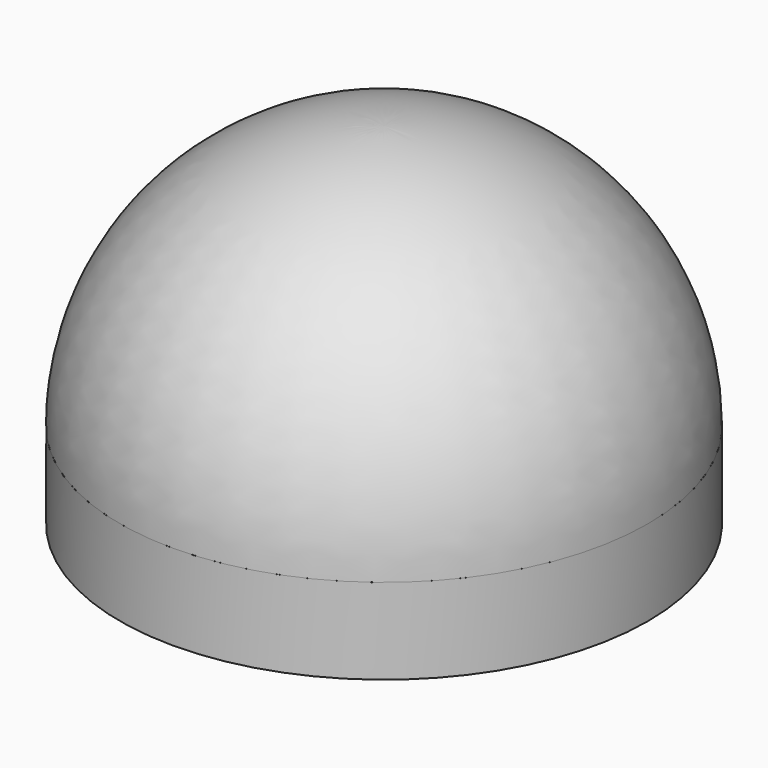
from build123d import *

# Parameters (mm, degrees)
SKETCH_R        = 46.2
PAD_DEPTH       = 15
SKETCH001_R     = 45
PAD001_DEPTH    = 3
SKETCH002_W     = 22
SKETCH002_H     = 52
POCKET_DEPTH    = 14
SKETCH003_W     = 8
SKETCH003_H     = 2.5
POCKET001_DEPTH = 3.701
FILLET_R        = 0.8
CHAMFER_SIZE    = 1
SKETCH004_W     = 7
SKETCH004_H     = 7
POCKET002_DEPTH = 6
SKETCH005_W     = 7
SKETCH005_H     = 2.25
POCKET003_DEPTH = 12.001
CHAMFER001_SIZE = 2
SKETCH006_W     = 22
SKETCH006_H     = 2.5
POCKET004_DEPTH = 1
SKETCH009_W     = 22
SKETCH009_H     = 3
PAD002_DEPTH    = 4
SKETCH010_W     = 14
SKETCH010_H     = 10
POCKET005_DEPTH = 12
FILLET001_R     = 1


with BuildPart() as body:
    # Sketch → Pad (new body)
    with BuildSketch(Plane.XY):
        Circle(SKETCH_R)
    extrude(amount=-PAD_DEPTH)

    # Sketch001 (on Face2 of Pad) → Pad001 (join)
    with BuildSketch(Plane.XY):
        Circle(SKETCH001_R)
    extrude(amount=PAD001_DEPTH)

    # Sketch002 (on Face5 of Pad001) → Pocket (cut)
    with BuildSketch(Plane.XY.offset(3)):
        with Locations((0, 16.5)):
            Rectangle(SKETCH002_W, SKETCH002_H)
    extrude(amount=-POCKET_DEPTH, mode=Mode.SUBTRACT)

    # Sketch003 (on Face9 of Pocket) → Pocket001 (cut, through all)
    with BuildSketch(Plane.XZ.offset(-42.5)):
        with Locations((0, -4.25)):
            Rectangle(SKETCH003_W, SKETCH003_H)
    extrude(amount=-POCKET001_DEPTH, mode=Mode.SUBTRACT)

    # Fillet
    fillet_edges = [body.edges().sort_by_distance(p)[0] for p in [
        (4, 44.263257, -3),
        (-4, 44.263257, -3),
        (-4, 44.263257, -5.5),
        (4, 44.263257, -5.5),
    ]]
    fillet(fillet_edges, radius=FILLET_R)

    # Chamfer
    chamfer_edges = [body.edges().sort_by_distance(p)[0] for p in [
        (-11, 16.5, 3),
        (11, 16.5, 3),
        (0, -9.5, 3),
    ]]
    chamfer(chamfer_edges, length=CHAMFER_SIZE)

    # Sketch004 (on Face21 of Chamfer) → Pocket002 (cut)
    with BuildSketch(Plane(origin=(0, 0, -15), x_dir=(1, 0, 0), z_dir=(0, 0, -1))):
        with Locations((0, 34)):
            Rectangle(SKETCH004_W, SKETCH004_H)
    extrude(amount=-POCKET002_DEPTH, mode=Mode.SUBTRACT)

    # Sketch005 (on Face26 of Pocket002) → Pocket003 (cut, through all)
    with BuildSketch(Plane(origin=(0, 0, -9), x_dir=(1, 0, 0), z_dir=(0, 0, -1))):
        with Locations((0, 36.375)):
            Rectangle(SKETCH005_W, SKETCH005_H)
        with Locations((0, 31.625)):
            Rectangle(SKETCH005_W, SKETCH005_H)
    extrude(amount=-POCKET003_DEPTH, mode=Mode.SUBTRACT)

    # Chamfer001
    chamfer001_edges = [body.edges().sort_by_distance(p)[0] for p in [
        (3.5, -34, -15),
        (0, -30.5, -15),
        (-3.5, -34, -15),
        (0, -37.5, -15),
    ]]
    chamfer(chamfer001_edges, length=CHAMFER001_SIZE)

    # Sketch006 (on Face22 of Chamfer001) → Pocket004 (cut)
    with BuildSketch(Plane.XZ.offset(-42.5)):
        with Locations((0, -3.25)):
            Rectangle(SKETCH006_W, SKETCH006_H)
    extrude(amount=-POCKET004_DEPTH, mode=Mode.SUBTRACT)

    # Sketch009 (on Face44 of Pocket004) → Pad002 (join)
    with BuildSketch(Plane.XY.offset(-11)):
        with Locations((0, -8)):
            Rectangle(SKETCH009_W, SKETCH009_H)
    extrude(amount=PAD002_DEPTH)

    # Sketch010 (on Face14 of Pocket004) → Pocket005 (cut)
    with BuildSketch(Plane.XY.offset(3)):
        with Locations((0, 49.1)):
            Rectangle(SKETCH010_W, SKETCH010_H)
    extrude(amount=-POCKET005_DEPTH, mode=Mode.SUBTRACT)

    # Fillet001
    fillet001_edges = [body.edges().sort_by_distance(p)[0] for p in [
        (-7, 44.883309, -9),
        (7, 44.883309, -9),
    ]]
    fillet(fillet001_edges, radius=FILLET001_R)


with BuildPart() as sphere001:
    # Sphere001 → Sphere001 (revolve)
    with BuildSketch(Plane.XZ):
        with BuildLine():
            ThreePointArc((45, 0), (31.819805, 31.819805), (0, 45))
            Line((0, 45), (0, 0))
            Line((0, 0), (45, 0))
        make_face()
    revolve(axis=Axis((0, 0, 0), (0, 0, 1)))


with BuildPart() as cut001001001:
    # Sphere002 → Sphere002 (revolve)
    with BuildSketch(Plane.XZ):
        with BuildLine():
            ThreePointArc((46.2, 0), (32.668333, 32.668333), (0, 46.2))
            Line((0, 46.2), (0, 0))
            Line((0, 0), (46.2, 0))
        make_face()
    revolve(axis=Axis((0, 0, 0), (0, 0, 1)))

    # Cut001: cut Sphere001
    add(sphere001.part, mode=Mode.SUBTRACT)


solid = Compound([body.part, cut001001001.part])
